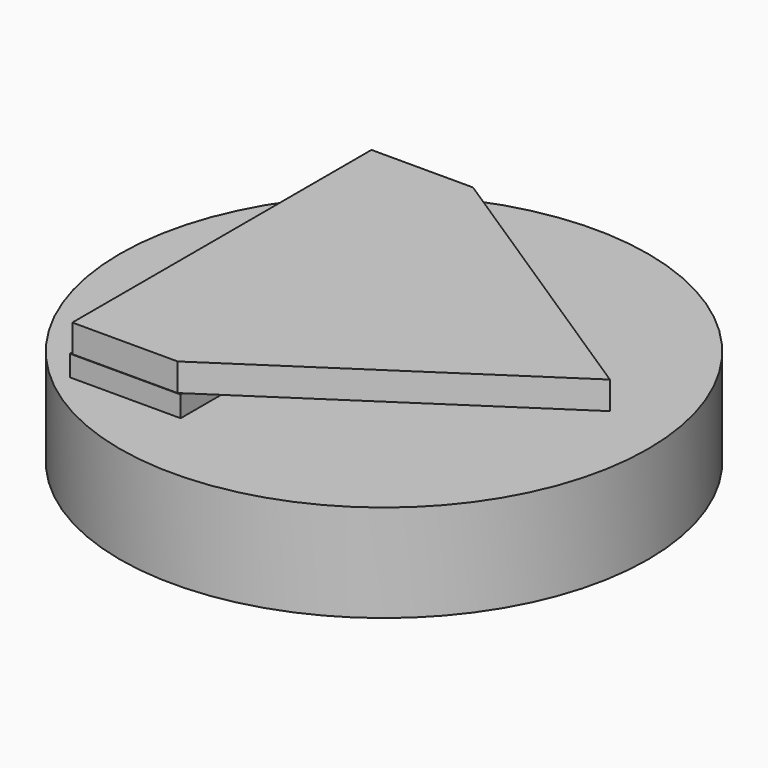
from build123d import *

# Parameters (mm, degrees)
F0_R     = 19
F1_DEPTH = 2
F2_W     = 7.969366
F2_H     = 26.664181
F3_DEPTH = 0.75
F5_R     = 19
F6_DEPTH = 2
F7_R     = 19
F7_R_2   = 18
F8_DEPTH = 5


with BuildPart() as f1:
    # F0 (on Top) → F1 (new body)
    with BuildSketch(Plane.XY):
        Circle(F0_R)
    extrude(amount=F1_DEPTH)

    # F2 (on face) → F3 (join)
    with BuildSketch(Plane.XY.offset(2)):
        with Locations((-7.822287, -0.156961)):
            Rectangle(F2_W, F2_H)
    extrude(amount=F3_DEPTH)

    # F4: F1 across face


with BuildPart() as f1_1:
    add(f1.part)
    add(f1.part.mirror(Plane(origin=(-7.822287, -0.156961, 2.75), x_dir=(1, 0, 0), z_dir=(0, 0, 1))))

    # F5 (on face) → F6 (cut)
    with BuildSketch(Plane.XY.offset(5.5)):
        Circle(F5_R)
        Polygon((-4.359122, 13.449247), (16.25054, 0), (-4.085717, -13.445996), (-11.66215, -13.445996), (-11.66215, 13.449247), align=None, mode=Mode.SUBTRACT)
    extrude(amount=-F6_DEPTH, mode=Mode.SUBTRACT)

    # F7 (on face) → F8 (join)
    with BuildSketch(Plane(origin=(0, 0, 0), x_dir=(1, 0, 0), z_dir=(0, 0, -1))):
        Circle(F7_R)
        Circle(F7_R_2, mode=Mode.SUBTRACT)
    extrude(amount=F8_DEPTH)


solid = f1_1.part
